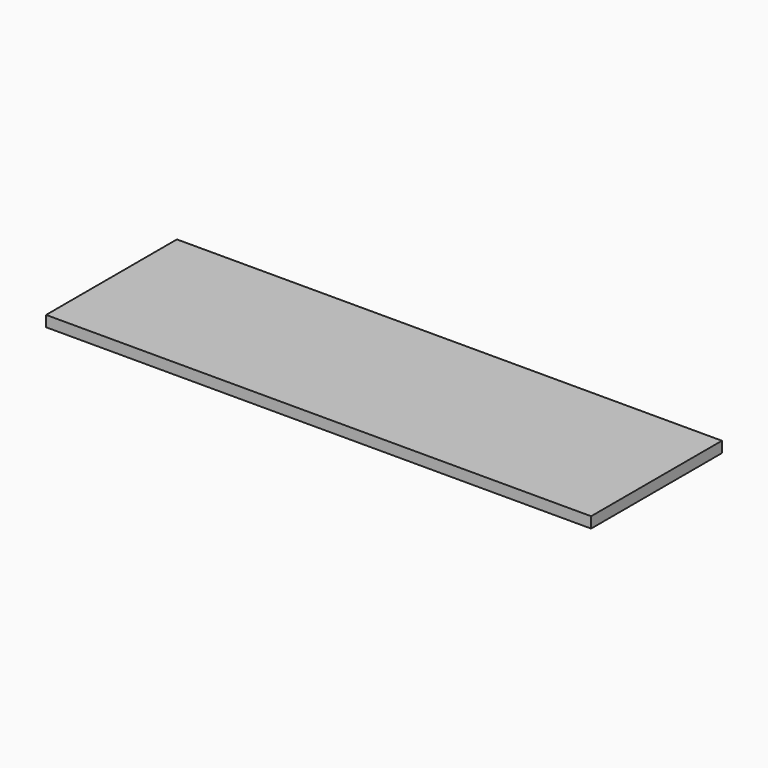
from build123d import *

# Parameters (mm, degrees)
RECTANGLE_W      = 500
RECTANGLE_H      = 150
EXTRUDE001_DEPTH = 10


with BuildPart() as part:
    # Rectangle → Extrude001 (new body)
    with BuildSketch(Plane(origin=(-49.979929, -49.911862, 0), x_dir=(1, 0, 0), z_dir=(0, 0, 1))):
        with Locations((250, 75)):
            Rectangle(RECTANGLE_W, RECTANGLE_H)
    extrude(amount=EXTRUDE001_DEPTH)


solid = part.part
